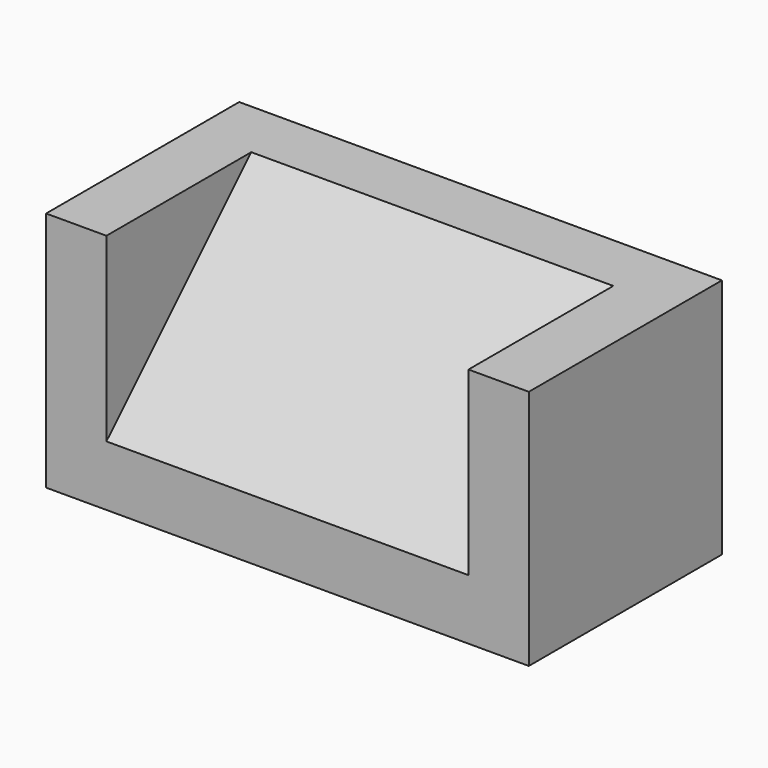
from build123d import *

# Parameters (mm, degrees)
F0_W     = 203.2
F0_H     = 101.6
F1_DEPTH = 101.6
F3_DEPTH = 203.2
F4_DEPTH = 25.4
F6_DEPTH = 25.4


with BuildPart() as f1:
    # F0 (on Front) → F1 (new body)
    with BuildSketch(Plane.XZ):
        Rectangle(F0_W, F0_H)
    extrude(amount=F1_DEPTH)

    # F2 (on face) → F3 (cut)
    with BuildSketch(Plane(origin=(-101.6, 0, 0), x_dir=(0, -1, 0), z_dir=(-1, 0, 0))):
        Polygon((101.6, 50.8), (25.40301, 50.8), (101.6, -25.4), align=None)
    extrude(amount=-F3_DEPTH, mode=Mode.SUBTRACT)

    # F2 (on face) → F4 (join)
    with BuildSketch(Plane(origin=(-101.6, 0, 0), x_dir=(0, -1, 0), z_dir=(-1, 0, 0))):
        Polygon((101.6, 50.8), (25.40301, 50.8), (101.6, -25.4), align=None)
    extrude(amount=-F4_DEPTH)

    # F5 (on face) → F6 (join)
    with BuildSketch(Plane.YZ.offset(101.6)):
        Polygon((-101.6, -25.4), (-25.40301, 50.8), (-101.6, 50.8), align=None)
    extrude(amount=-F6_DEPTH)


solid = f1.part
